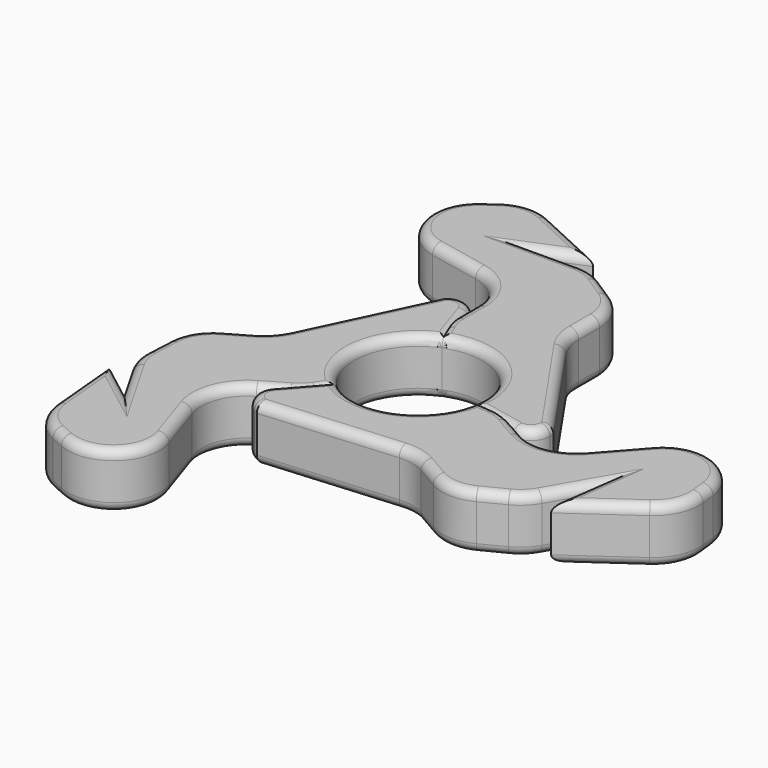
from build123d import *

# Parameters (mm, degrees)
F1_DEPTH = 7.62
F2_COUNT = 3
F3_R     = 8.8186868774
F4_DEPTH = 25.4
F5_R     = 1.27
F5_2_R   = 1.27
F5_3_R   = 1.27


with BuildPart() as f1:
    # F0 (on Top) → F1 (new body)
    with BuildSketch(Plane.XY):
        with BuildLine():
            Line((-29.6249163514, 33.7088400719), (-31.2004576536, 32.5459408293))
            ThreePointArc((-31.2004576536, 32.5459408293), (-33.6307990469, 26.0707534294), (-28.7045303245, 21.2162207407))
            Line((-28.7045303245, 21.2162207407), (-21.6391450648, 19.7680485444))
            ThreePointArc((-21.6391450648, 19.7680485444), (-17.9938658665, 17.5614765244), (-16.5641792119, 13.5473743105))
            Line((-16.5641792119, 13.5473743105), (-16.5641792119, 9.8382715004))
            ThreePointArc((-16.5641792119, 9.8382715004), (-16.4141047688, 8.465892876), (-15.9709750894, 7.1583832146))
            Line((-15.9709750894, 7.1583832146), (-11.1384096682, -3.2226811163))
            Line((-11.1384096682, -3.2226811163), (7.4940444902, -3.2226811163))
            Line((7.4940444902, -3.2226811163), (-2.9974511765, 12.0271199927))
            ThreePointArc((-2.9974511765, 12.0271199927), (-3.8298797532, 13.7417987762), (-4.1159475222, 15.6262684358))
            Line((-4.1159475222, 15.6262684358), (-4.1159475222, 19.2379415386))
            ThreePointArc((-4.1159475222, 19.2379415386), (-4.8862682682, 22.2693899419), (-7.0103347417, 24.5653461892))
            Line((-7.0103347417, 24.5653461892), (-9.968228873, 26.483979639))
            ThreePointArc((-9.968228873, 26.483979639), (-11.6219703389, 27.2455617485), (-13.4238416535, 27.5065749884))
            Line((-13.4238416535, 27.5065749884), (-19.3750690669, 27.5065749884))
            Line((-19.3750690669, 27.5065749884), (-13.5525101796, 29.9159102142))
            Line((-13.5525101796, 29.9159102142), (-23.192935918, 34.3653365255))
            ThreePointArc((-23.192935918, 34.3653365255), (-26.498733905, 34.9169739679), (-29.6249163514, 33.7088400719))
        make_face()
        with BuildLine():
            Line((7.4940444902, -3.2226811163), (-11.1384096682, -3.2226811163))
            Line((-11.1384096682, -3.2226811163), (4.4642109977, -6.4207065045))
            ThreePointArc((4.4642109977, -6.4207065045), (6.6092432886, -5.8762253984), (7.5130787924, -3.8561500072))
            Line((7.5130787924, -3.8561500072), (7.4940444902, -3.2226811163))
        make_face()
    extrude(amount=F1_DEPTH)


with BuildPart() as f2_1:
    # F2: instance of F1
    add(f1.part.rotate(Axis((-11.1384096682, -3.2226811163, 3.81), (0, 0, -1)), 1 * 360 / F2_COUNT))


with BuildPart() as f2_2:
    # F2: instance of F1
    add(f1.part.rotate(Axis((-11.1384096682, -3.2226811163, 3.81), (0, 0, -1)), 2 * 360 / F2_COUNT))


with BuildPart() as f4_tool:
    # F3 (on face) → F4 (new body)
    with BuildSketch(Plane.XY.offset(7.62)):
        with Locations((-11.1384096682, -3.2226811163)):
            Circle(F3_R)
    extrude(amount=-F4_DEPTH)


with BuildPart() as f1_1:
    add(f1.part)

    # F4: cut by f4_tool
    add(f4_tool.part, mode=Mode.SUBTRACT)

    # F5#3
    f5_3_edges = [f1_1.edges().sort_by_distance(p)[0] for p in [
        (-33.630799, 26.070753, 7.62),
        (-25.171838, 20.492135, 7.62),
        (-17.993866, 17.561477, 7.62),
        (-16.564179, 11.692823, 7.62),
        (-16.414105, 8.465893, 7.62),
        (-15.415566, 5.965283, 7.62),
        (-5.671533, 3.697037, 7.62),
        (0.982442, -5.707058, 7.62),
        (6.609243, -5.876225, 7.62),
        (7.503562, -3.539416, 7.62),
        (2.248297, 4.402219, 7.62),
        (-3.82988, 13.741799, 7.62),
        (-4.115948, 17.432105, 7.62),
        (-4.886268, 22.26939, 7.62),
        (-8.489282, 25.524663, 7.62),
        (-11.62197, 27.245562, 7.62),
        (-16.399455, 27.506575, 7.62),
        (-16.46379, 28.711243, 7.62),
        (-18.372723, 32.140623, 7.62),
        (-26.498734, 34.916974, 7.62),
        (-30.412687, 33.12739, 7.62),
        (-25.171838, 20.492135, 0),
        (-17.993866, 17.561477, 0),
        (-16.564179, 11.692823, 0),
        (-16.414105, 8.465893, 0),
        (-15.415566, 5.965283, 0),
        (-5.671533, 3.697037, 0),
        (0.982442, -5.707058, 0),
        (6.609243, -5.876225, 0),
        (7.503562, -3.539416, 0),
        (2.248297, 4.402219, 0),
        (-3.82988, 13.741799, 0),
        (-4.115948, 17.432105, 0),
        (-4.886268, 22.26939, 0),
        (-8.489282, 25.524663, 0),
        (-11.62197, 27.245562, 0),
        (-16.399455, 27.506575, 0),
        (-16.46379, 28.711243, 0),
        (-18.372723, 32.140623, 0),
        (-26.498734, 34.916974, 0),
        (-30.412687, 33.12739, 0),
        (-33.630799, 26.070753, 0),
    ]]
    fillet(f5_3_edges, radius=F5_3_R)


with BuildPart() as f2_1_1:
    add(f2_1.part)

    # F4: cut by f4_tool
    add(f4_tool.part, mode=Mode.SUBTRACT)

    # F5#2
    f5_2_edges = [f2_1_1.edges().sort_by_distance(p)[0] for p in [
        (-11.228405, -18.628359, 7.62),
        (16.415937, -2.926784, 7.62),
        (25.476644, 1.609582, 7.62),
        (29.978814, -4.705703, 7.62),
        (29.571663, -8.990078, 7.62),
        (23.104267, -14.639234, 7.62),
        (19.179869, -14.577729, 7.62),
        (18.10443, -14.03111, 7.62),
        (15.489643, -18.038027, 7.62),
        (12.432957, -19.890565, 7.62),
        (7.812301, -21.38323, 7.62),
        (3.237929, -19.631705, 7.62),
        (-0.101004, -18.034294, 7.62),
        (-20.733695, -19.208735, 7.62),
        (-22.310273, -17.265827, 7.62),
        (-19.350369, -12.477458, 7.62),
        (-7.879197, -11.416994, 7.62),
        (-1.042822, -4.112537, 7.62),
        (1.62204, -4.498082, 7.62),
        (4.49168, -5.981579, 7.62),
        (10.288927, -7.677761, 7.62),
        (16.415937, -2.926784, 0),
        (25.476644, 1.609582, 0),
        (29.978814, -4.705703, 0),
        (29.571663, -8.990078, 0),
        (23.104267, -14.639234, 0),
        (19.179869, -14.577729, 0),
        (18.10443, -14.03111, 0),
        (15.489643, -18.038027, 0),
        (12.432957, -19.890565, 0),
        (7.812301, -21.38323, 0),
        (3.237929, -19.631705, 0),
        (-0.101004, -18.034294, 0),
        (-11.228405, -18.628359, 0),
        (-20.733695, -19.208735, 0),
        (-22.310273, -17.265827, 0),
        (-19.350369, -12.477458, 0),
        (-7.879197, -11.416994, 0),
        (-1.042822, -4.112537, 0),
        (1.62204, -4.498082, 0),
        (4.49168, -5.981579, 0),
        (10.288927, -7.677761, 0),
    ]]
    fillet(f5_2_edges, radius=F5_2_R)


with BuildPart() as f2_2_1:
    add(f2_2.part)

    # F4: cut by f4_tool
    add(f4_tool.part, mode=Mode.SUBTRACT)

    # F5
    f5_edges = [f2_2_1.edges().sort_by_distance(p)[0] for p in [
        (-29.484345, -5.375548, 7.62),
        (-38.146773, -27.169433, 7.62),
        (-25.261073, -37.348379, 7.62),
        (-24.659329, -27.233394, 7.62),
        (-32.981356, -38.089731, 7.62),
        (-36.488158, -35.59494, 7.62),
        (-36.131309, -23.801557, 7.62),
        (-35.120203, -23.143508, 7.62),
        (-37.282902, -18.875578, 7.62),
        (-37.358904, -15.302141, 7.62),
        (-36.341261, -10.554203, 7.62),
        (-32.53721, -7.468444, 7.62),
        (-24.43512, 4.558096, 7.62),
        (-20.185095, 13.080107, 7.62),
        (-17.714199, 13.474009, 7.62),
        (-15.047302, 8.516473, 7.62),
        (-19.8645, -1.948086, 7.62),
        (-16.956841, -11.520789, 7.62),
        (-18.623164, -13.635854, 7.62),
        (-21.34273, -15.379287, 7.62),
        (-25.71029, -19.551759, 7.62),
        (-24.659329, -27.233394, 0),
        (-25.261073, -37.348379, 0),
        (-32.981356, -38.089731, 0),
        (-36.488158, -35.59494, 0),
        (-38.146773, -27.169433, 0),
        (-36.131309, -23.801557, 0),
        (-35.120203, -23.143508, 0),
        (-37.282902, -18.875578, 0),
        (-37.358904, -15.302141, 0),
        (-36.341261, -10.554203, 0),
        (-32.53721, -7.468444, 0),
        (-29.484345, -5.375548, 0),
        (-24.43512, 4.558096, 0),
        (-20.185095, 13.080107, 0),
        (-17.714199, 13.474009, 0),
        (-15.047302, 8.516473, 0),
        (-19.8645, -1.948086, 0),
        (-16.956841, -11.520789, 0),
        (-18.623164, -13.635854, 0),
        (-21.34273, -15.379287, 0),
        (-25.71029, -19.551759, 0),
    ]]
    fillet(f5_edges, radius=F5_R)


solid = Compound([f1_1.part, f2_1_1.part, f2_2_1.part])
